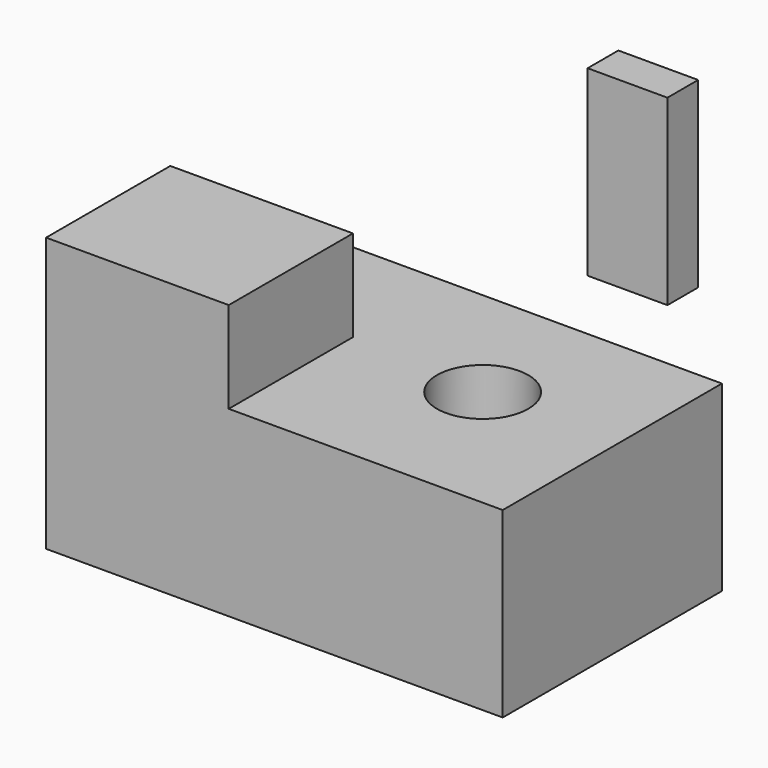
from build123d import *

# Parameters (mm, degrees)
F0_W     = 127
F0_H     = 76.2
F0_R     = 12.7
F0_W_2   = 22.198826
F0_H_2   = 10.68192
F1_DEPTH = 50.8
F2_W     = 50.8
F2_H     = 43.18
F3_DEPTH = 25.4


with BuildPart() as f1:
    # F0 (on Top) → F1 (new body)
    with BuildSketch(Plane.XY):
        with Locations((-145.77842, -21.278978)):
            Rectangle(F0_W, F0_H)
        with Locations((-120.37842, -18.738978)):
            Circle(F0_R, mode=Mode.SUBTRACT)
        with Locations((-186.598569, 119.74502)):
            Rectangle(F0_W_2, F0_H_2)
    extrude(amount=F1_DEPTH)

    # F2 (on face) → F3 (join)
    with BuildSketch(Plane.XY.offset(50.8)):
        with Locations((-183.87842, -37.788978)):
            Rectangle(F2_W, F2_H)
    extrude(amount=F3_DEPTH)


solid = f1.part
